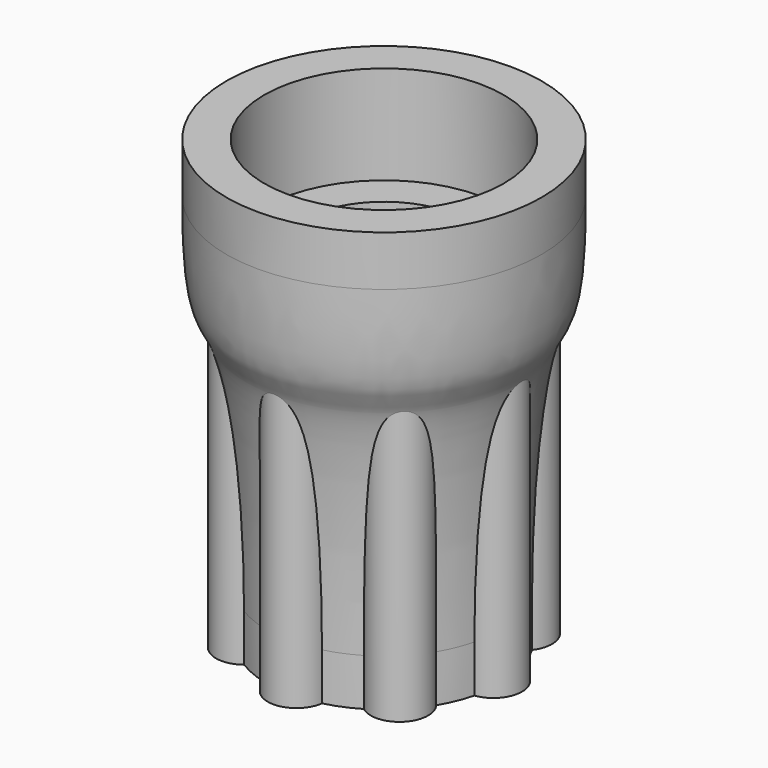
from build123d import *

# Parameters (mm, degrees)
F0_R     = 6.35
F0_R_2   = 4.826
F1_DEPTH = 17.78
F2_DEPTH = 3.96875
F3_R     = 3.3655
F4_DEPTH = 11.9126
F8_DEPTH = 11.0998


with BuildPart() as f1:
    # F0 (on Top) → F1 (new body)
    with BuildSketch(Plane.XY):
        Circle(F0_R)
        Circle(F0_R_2, mode=Mode.SUBTRACT)
        Circle(F0_R_2)
    extrude(amount=-F1_DEPTH)

    # F0 (on Top) → F2 (cut)
    with BuildSketch(Plane.XY):
        Circle(F0_R_2)
    extrude(amount=-F2_DEPTH, mode=Mode.SUBTRACT)

    # F3 (on face) → F4 (cut)
    with BuildSketch(Plane.XY.offset(-3.96875)):
        Circle(F3_R)
    extrude(amount=-F4_DEPTH, mode=Mode.SUBTRACT)

    # F5 (on Front) → F6 (revolve, cut)
    with BuildSketch(Plane.XZ):
        with BuildLine():
            Line((-6.35, -4.0450559158), (-6.35, -17.78))
            Line((-6.35, -17.78), (-4.699, -17.78))
            Line((-4.699, -17.78), (-4.699, -15.88135))
            add(Edge.make_bspline(
                [(-6.35, -2.0225279579), (-6.35, -6.1770705744), (-5.3292767375, -5.3773556727), (-4.699, -11.7937795575), (-4.699, -15.88135)],
                knots=[0, 0, 0, 0, 0.4207974833, 1, 1, 1, 1], degree=3))
            Line((-6.35, -2.0225279579), (-6.35, -4.0450559158))
        make_face()
        Polygon((-4.699, -17.78), (-6.35, -17.78), (-6.35, -4.0450559158), (-6.35, -2.0225279579), (-8.8478010148, -2.0225279579), (-8.8478010148, -19.1934037815), (-4.699, -19.1934037815), align=None)
    revolve(axis=Axis((0, 0, -1.0444802465), (0, 0, -1)), mode=Mode.SUBTRACT)

    # F7 (on face) → F8 (join)
    with BuildSketch(Plane(origin=(0, 0, -17.78), x_dir=(1, 0, 0), z_dir=(0, 0, -1))):
        with BuildLine():
            ThreePointArc((2.4113470969, -4.0331137076), (3.9334862522, -3.9334862522), (4.0331137076, -2.4113470969))
            ThreePointArc((4.0331137076, -2.4113470969), (3.3226947648, -3.3226947648), (2.4113470969, -4.0331137076))
        make_face()
        with BuildLine():
            ThreePointArc((-1.1467621679, -4.5569219359), (0, -5.5627896053), (1.1467621679, -4.5569219359))
            ThreePointArc((1.1467621679, -4.5569219359), (0, -4.699), (-1.1467621679, -4.5569219359))
        make_face()
        with BuildLine():
            ThreePointArc((-4.0331137076, -2.4113470969), (-3.9334862522, -3.9334862522), (-2.4113470969, -4.0331137076))
            ThreePointArc((-2.4113470969, -4.0331137076), (-3.3226947648, -3.3226947648), (-4.0331137076, -2.4113470969))
        make_face()
        with BuildLine():
            ThreePointArc((-4.5569219359, -1.1467621679), (-4.699, 0), (-4.5569219359, 1.1467621679))
            ThreePointArc((-4.5569219359, 1.1467621679), (-5.5627896053, 0), (-4.5569219359, -1.1467621679))
        make_face()
        with BuildLine():
            ThreePointArc((-4.0331137076, 2.4113470969), (-3.3226947648, 3.3226947648), (-2.4113470969, 4.0331137076))
            ThreePointArc((-2.4113470969, 4.0331137076), (-3.9334862522, 3.9334862522), (-4.0331137076, 2.4113470969))
        make_face()
        with BuildLine():
            ThreePointArc((-1.1467621679, 4.5569219359), (0, 4.699), (1.1467621679, 4.5569219359))
            ThreePointArc((1.1467621679, 4.5569219359), (0, 5.5627896053), (-1.1467621679, 4.5569219359))
        make_face()
        with BuildLine():
            ThreePointArc((2.4113470969, 4.0331137076), (3.3226947648, 3.3226947648), (4.0331137076, 2.4113470969))
            ThreePointArc((4.0331137076, 2.4113470969), (3.9334862522, 3.9334862522), (2.4113470969, 4.0331137076))
        make_face()
        with BuildLine():
            ThreePointArc((4.5569219359, 1.1467621679), (4.6633452144, 0.5777650141), (4.699, 0))
            ThreePointArc((4.699, 0), (4.6633452144, -0.5777650141), (4.5569219359, -1.1467621679))
            ThreePointArc((4.5569219359, -1.1467621679), (5.5627896053, 0), (4.5569219359, 1.1467621679))
        make_face()
    extrude(amount=-F8_DEPTH)


solid = f1.part
